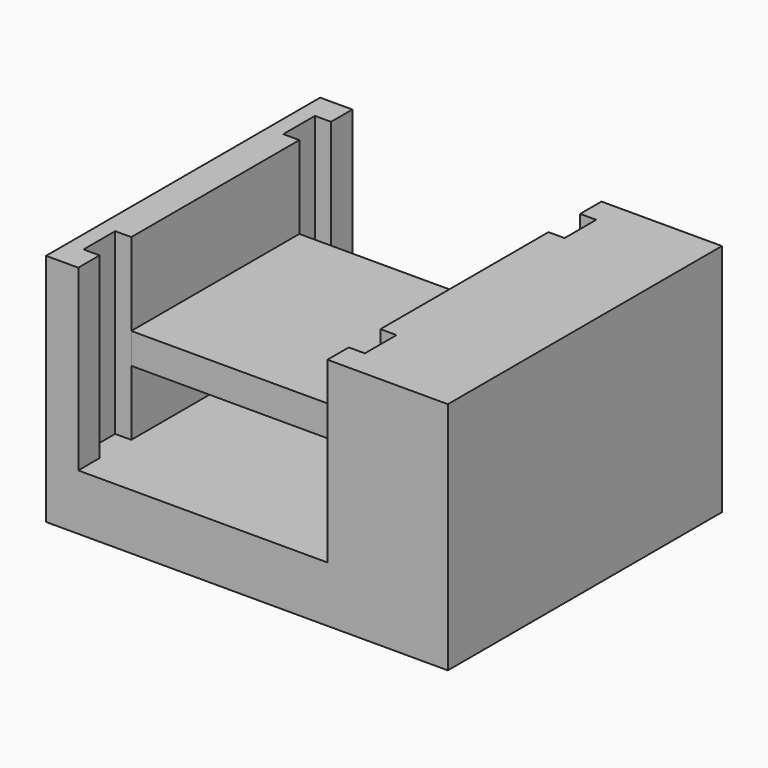
from build123d import *

# Parameters (mm, degrees)
F1_DEPTH  = 17.93161
F2_DEPTH  = 75.24566
F3_W      = 80
F3_H      = 9.859875
F4_DEPTH  = 33.73
F2_FACE_W = 110
F2_FACE_H = 75.24566
F5_DEPTH  = 28.33094


with BuildPart() as f1:
    # F0 (on Top) → F1 (new body)
    with BuildSketch(Plane.XY):
        Polygon((-40, -55), (0, -55), (0, 0), (-40, 0), (-40, -33.72997), (-45.169481, -33.72997), (-45.169481, -46.42997), (-40, -46.42997), align=None)
        Polygon((0, 0), (0, -55), (40, -55), (40, -46.42997), (45.169481, -46.42997), (45.169481, -33.72997), (40, -33.72997), (40, 0), align=None)
        Polygon((-40, 0), (0, 0), (0, 55), (-40, 55), (-40, 46.42997), (-45.169481, 46.42997), (-45.169481, 33.72997), (-40, 33.72997), align=None)
        Polygon((0, 55), (0, 0), (40, 0), (40, 33.72997), (45.169481, 33.72997), (45.169481, 46.42997), (40, 46.42997), (40, 55), align=None)
        Polygon((-50.338964, -55), (-40, -55), (-40, -46.42997), (-45.169481, -46.42997), (-45.169481, -33.72997), (-40, -33.72997), (-40, 0), (-50.338964, 0), align=None)
        Polygon((40, -46.42997), (40, -55), (50.338964, -55), (50.338964, 0), (40, 0), (40, -33.72997), (45.169481, -33.72997), (45.169481, -46.42997), align=None)
        Polygon((40, 33.72997), (40, 0), (50.338964, 0), (50.338964, 55), (40, 55), (40, 46.42997), (45.169481, 46.42997), (45.169481, 33.72997), align=None)
        Polygon((-50.338964, 0), (-40, 0), (-40, 33.72997), (-45.169481, 33.72997), (-45.169481, 46.42997), (-40, 46.42997), (-40, 55), (-50.338964, 55), align=None)
    extrude(amount=F1_DEPTH)

    # F0 (on Top) → F2 (join)
    with BuildSketch(Plane.XY):
        Polygon((40, -46.42997), (40, -55), (50.338964, -55), (50.338964, 0), (40, 0), (40, -33.72997), (45.169481, -33.72997), (45.169481, -46.42997), align=None)
        Polygon((-50.338964, -55), (-40, -55), (-40, -46.42997), (-45.169481, -46.42997), (-45.169481, -33.72997), (-40, -33.72997), (-40, 0), (-50.338964, 0), align=None)
        Polygon((-50.338964, 0), (-40, 0), (-40, 33.72997), (-45.169481, 33.72997), (-45.169481, 46.42997), (-40, 46.42997), (-40, 55), (-50.338964, 55), align=None)
        Polygon((40, 33.72997), (40, 0), (50.338964, 0), (50.338964, 55), (40, 55), (40, 46.42997), (45.169481, 46.42997), (45.169481, 33.72997), align=None)
    extrude(amount=F2_DEPTH)

    # F3 (on Front) → F4 (join, symmetric)
    with BuildSketch(Plane.XZ):
        with Locations((0, 43.787974)):
            Rectangle(F3_W, F3_H)
    extrude(amount=F4_DEPTH, both=True)

    # F2_face (on face) → F5 (join)
    with BuildSketch(Plane(origin=(50.338964, 0, 37.62283), x_dir=(0, 1, 0), z_dir=(1, 0, 0))):
        Rectangle(F2_FACE_W, F2_FACE_H)
    extrude(amount=F5_DEPTH)


solid = f1.part
